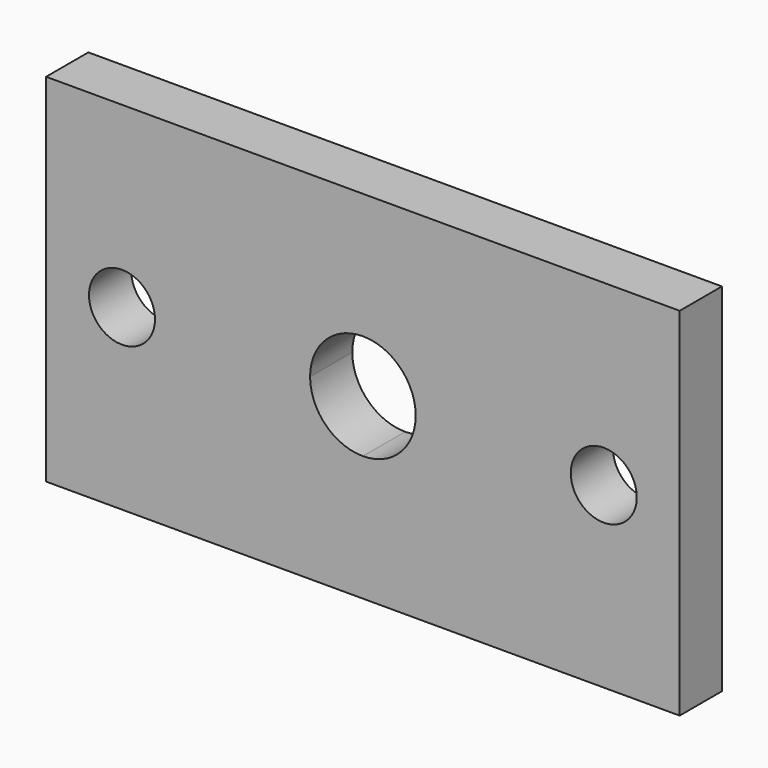
from build123d import *

# Parameters (mm, degrees)
F1_DEPTH = 4


with BuildPart() as f1:
    # F0 (on Front) → F1 (new body)
    with BuildSketch(Plane.XZ):
        with BuildLine():
            Line((15.75, 0), (4, 0))
            ThreePointArc((4, 0), (2.828427, -2.828427), (0, -4))
            Line((0, -4), (0, -13.5))
            Line((0, -13.5), (24, -13.5))
            Line((24, -13.5), (24, 0))
            Line((24, 0), (20.75, 0))
            ThreePointArc((20.75, 0), (18.25, -2.5), (15.75, 0))
        make_face()
        with BuildLine():
            ThreePointArc((0, 4), (2.828427, 2.828427), (4, 0))
            Line((4, 0), (15.75, 0))
            ThreePointArc((15.75, 0), (18.25, 2.5), (20.75, 0))
            Line((20.75, 0), (24, 0))
            Line((24, 0), (24, 13.5))
            Line((24, 13.5), (0, 13.5))
            Line((0, 13.5), (0, 4))
        make_face()
        with BuildLine():
            ThreePointArc((-4, 0), (-2.828427, 2.828427), (0, 4))
            Line((0, 4), (0, 13.5))
            Line((0, 13.5), (-24, 13.5))
            Line((-24, 13.5), (-24, 0))
            Line((-24, 0), (-20.75, 0))
            ThreePointArc((-20.75, 0), (-18.25, 2.5), (-15.75, 0))
            Line((-15.75, 0), (-4, 0))
        make_face()
        with BuildLine():
            Line((0, -13.5), (0, -4))
            ThreePointArc((0, -4), (-2.828427, -2.828427), (-4, 0))
            Line((-4, 0), (-15.75, 0))
            ThreePointArc((-15.75, 0), (-18.25, -2.5), (-20.75, 0))
            Line((-20.75, 0), (-24, 0))
            Line((-24, 0), (-24, -13.5))
            Line((-24, -13.5), (0, -13.5))
        make_face()
    extrude(amount=F1_DEPTH)


solid = f1.part
